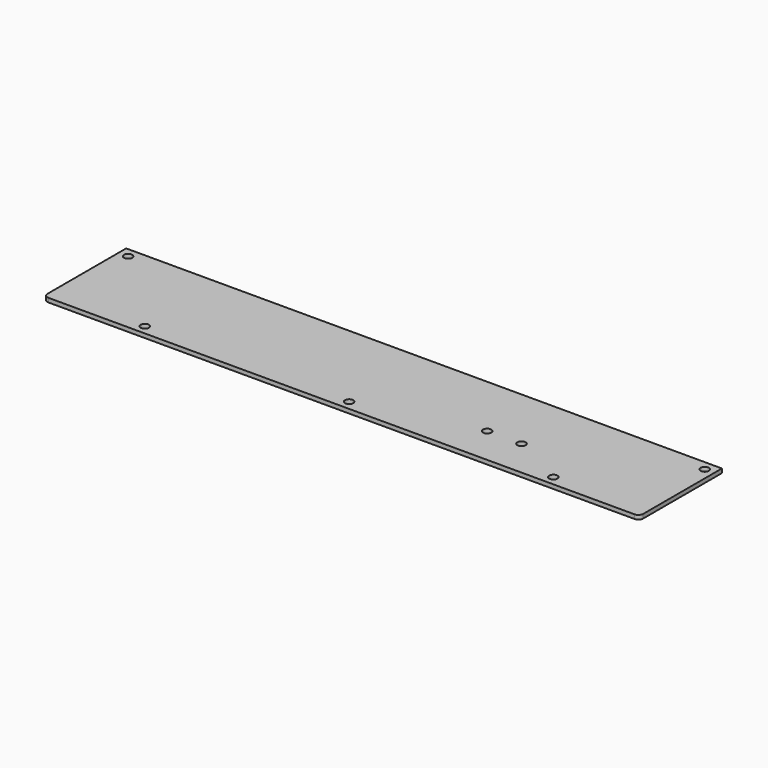
from build123d import *

# Parameters (mm, degrees)
F0_W     = 248.269176
F0_H     = 43.005985
F0_R     = 1.7272
F1_DEPTH = 1.70942
F2_R     = 1.98374


with BuildPart() as f1:
    # F0 (on Top) → F1 (new body)
    with BuildSketch(Plane.XY):
        with Locations((124.134588, -21.502992)):
            Rectangle(F0_W, F0_H)
        with Locations((39.037235, -39.037235)):
            Circle(F0_R, mode=Mode.SUBTRACT)
        with Locations((124.134588, -39.037235)):
            Circle(F0_R, mode=Mode.SUBTRACT)
        with Locations((209.231941, -39.037235)):
            Circle(F0_R, mode=Mode.SUBTRACT)
        with Locations((172.169849, -27.149146)):
            Circle(F0_R, mode=Mode.SUBTRACT)
        with Locations((186.457349, -27.149146)):
            Circle(F0_R, mode=Mode.SUBTRACT)
        with Locations((3.96875, -3.96875)):
            Circle(F0_R, mode=Mode.SUBTRACT)
        with Locations((244.300426, -3.96875)):
            Circle(F0_R, mode=Mode.SUBTRACT)
    extrude(amount=F1_DEPTH)

    # F2
    f2_edges = [f1.edges().sort_by_distance(p)[0] for p in [
        (0, -43.005985, 0.85471),
        (248.269176, -43.005985, 0.85471),
    ]]
    fillet(f2_edges, radius=F2_R)


solid = f1.part
